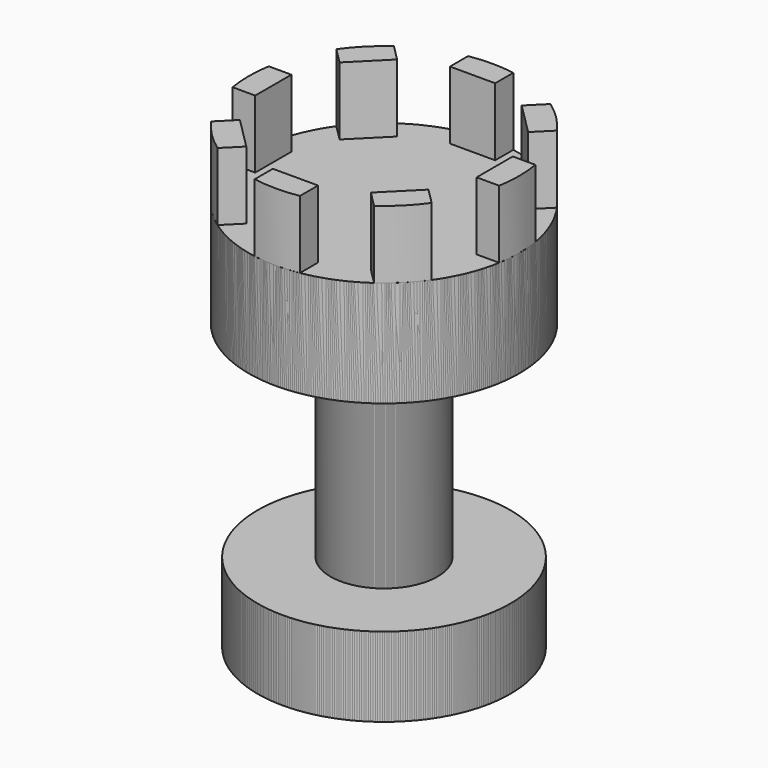
from build123d import *

# Parameters (mm, degrees)
F3_DEPTH = 15
F4_COUNT = 8


with BuildPart() as f1:
    # F0 (on Front) → F1 (revolve)
    with BuildSketch(Plane.XZ):
        Polygon((29.8985317349, 47.513410449), (0, 47.513410449), (0, -38.9328040183), (27.9449466616, -38.9328040183), (27.9449466616, -21.3505234569), (11.8278553709, -21.3505234569), (11.8278553709, 24.0703653544), (29.8985317349, 24.0703653544), (29.8985317349, 45.071426779), align=None)
    revolve(axis=Axis((0, 0, -15.2761340141), (0, 0, -1)))

    # F2 (on face) → F3 (join)
    with BuildSketch(Plane.XY.offset(47.513410449)):
        with BuildLine():
            ThreePointArc((5, 29.4774863227), (0, 29.8985317349), (-5, 29.4774863227))
            Line((-5, 29.4774863227), (-5, 24.4774863227))
            Line((-5, 24.4774863227), (5, 24.4774863227))
            Line((5, 24.4774863227), (5, 29.4774863227))
        make_face()
    extrude(amount=F3_DEPTH)


with BuildPart() as f4_1:
    # F4: instance of F1
    add(f1.part.rotate(Axis((0, 0, 24.0703653544), (0, 0, 1)), 1 * 360 / F4_COUNT))


with BuildPart() as f4_2:
    # F4: instance of F1
    add(f1.part.rotate(Axis((0, 0, 24.0703653544), (0, 0, 1)), 2 * 360 / F4_COUNT))


with BuildPart() as f4_3:
    # F4: instance of F1
    add(f1.part.rotate(Axis((0, 0, 24.0703653544), (0, 0, 1)), 3 * 360 / F4_COUNT))


with BuildPart() as f4_4:
    # F4: instance of F1
    add(f1.part.rotate(Axis((0, 0, 24.0703653544), (0, 0, 1)), 4 * 360 / F4_COUNT))


with BuildPart() as f4_5:
    # F4: instance of F1
    add(f1.part.rotate(Axis((0, 0, 24.0703653544), (0, 0, 1)), 5 * 360 / F4_COUNT))


with BuildPart() as f4_6:
    # F4: instance of F1
    add(f1.part.rotate(Axis((0, 0, 24.0703653544), (0, 0, 1)), 6 * 360 / F4_COUNT))


with BuildPart() as f4_7:
    # F4: instance of F1
    add(f1.part.rotate(Axis((0, 0, 24.0703653544), (0, 0, 1)), 7 * 360 / F4_COUNT))


solid = Compound([f1.part, f4_1.part, f4_2.part, f4_3.part, f4_4.part, f4_5.part, f4_6.part, f4_7.part])
